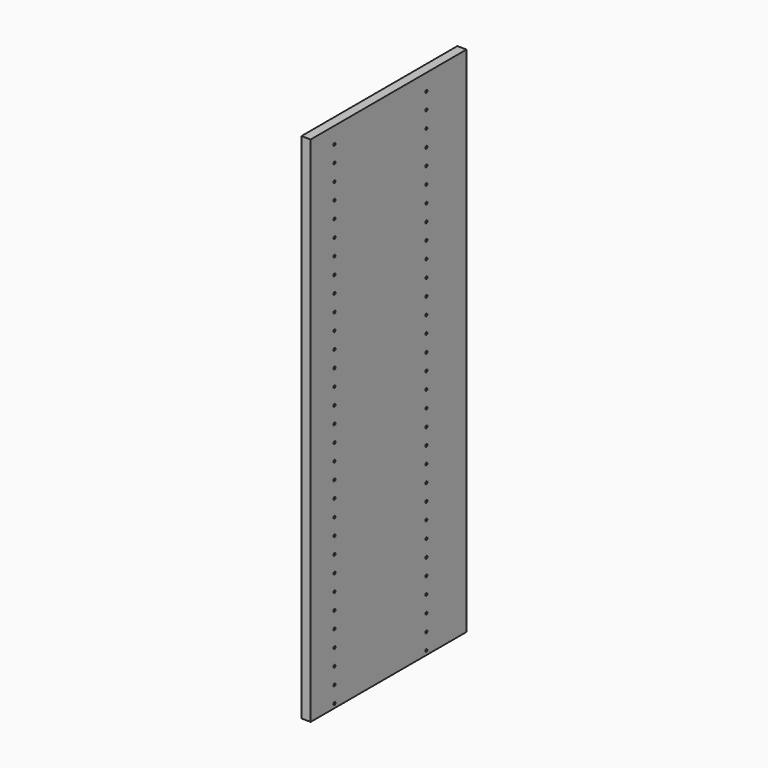
from build123d import *

# Parameters (mm, degrees)
F0_W     = 380
F0_H     = 1000
F1_DEPTH = 18
F2_R     = 2.5
F3_DEPTH = 5


with BuildPart() as f1:
    # F0 (on Right) → F1 (new body)
    with BuildSketch(Plane.YZ):
        with Locations((190, 500)):
            Rectangle(F0_W, F0_H)
    extrude(amount=F1_DEPTH)

    # F2 (on face) → F3 (cut)
    with BuildSketch(Plane.YZ.offset(18)):
        with Locations((58, 8)):
            Circle(F2_R)
        with Locations((58, 40)):
            Circle(F2_R)
        with Locations((58, 72)):
            Circle(F2_R)
        with Locations((58, 104)):
            Circle(F2_R)
        with Locations((58, 136)):
            Circle(F2_R)
        with Locations((58, 168)):
            Circle(F2_R)
        with Locations((58, 200)):
            Circle(F2_R)
        with Locations((58, 232)):
            Circle(F2_R)
        with Locations((58, 264)):
            Circle(F2_R)
        with Locations((58, 296)):
            Circle(F2_R)
        with Locations((58, 328)):
            Circle(F2_R)
        with Locations((58, 360)):
            Circle(F2_R)
        with Locations((58, 392)):
            Circle(F2_R)
        with Locations((58, 424)):
            Circle(F2_R)
        with Locations((58, 456)):
            Circle(F2_R)
        with Locations((58, 488)):
            Circle(F2_R)
        with Locations((58, 520)):
            Circle(F2_R)
        with Locations((58, 552)):
            Circle(F2_R)
        with Locations((58, 584)):
            Circle(F2_R)
        with Locations((58, 616)):
            Circle(F2_R)
        with Locations((58, 648)):
            Circle(F2_R)
        with Locations((58, 680)):
            Circle(F2_R)
        with Locations((58, 712)):
            Circle(F2_R)
        with Locations((58, 744)):
            Circle(F2_R)
        with Locations((58, 776)):
            Circle(F2_R)
        with Locations((58, 808)):
            Circle(F2_R)
        with Locations((58, 840)):
            Circle(F2_R)
        with Locations((58, 872)):
            Circle(F2_R)
        with Locations((58, 904)):
            Circle(F2_R)
        with Locations((58, 936)):
            Circle(F2_R)
        with Locations((58, 968)):
            Circle(F2_R)
        with Locations((282, 8)):
            Circle(F2_R)
        with Locations((282, 40)):
            Circle(F2_R)
        with Locations((282, 72)):
            Circle(F2_R)
        with Locations((282, 104)):
            Circle(F2_R)
        with Locations((282, 136)):
            Circle(F2_R)
        with Locations((282, 168)):
            Circle(F2_R)
        with Locations((282, 200)):
            Circle(F2_R)
        with Locations((282, 232)):
            Circle(F2_R)
        with Locations((282, 264)):
            Circle(F2_R)
        with Locations((282, 296)):
            Circle(F2_R)
        with Locations((282, 328)):
            Circle(F2_R)
        with Locations((282, 360)):
            Circle(F2_R)
        with Locations((282, 392)):
            Circle(F2_R)
        with Locations((282, 424)):
            Circle(F2_R)
        with Locations((282, 456)):
            Circle(F2_R)
        with Locations((282, 488)):
            Circle(F2_R)
        with Locations((282, 520)):
            Circle(F2_R)
        with Locations((282, 552)):
            Circle(F2_R)
        with Locations((282, 584)):
            Circle(F2_R)
        with Locations((282, 616)):
            Circle(F2_R)
        with Locations((282, 648)):
            Circle(F2_R)
        with Locations((282, 680)):
            Circle(F2_R)
        with Locations((282, 712)):
            Circle(F2_R)
        with Locations((282, 744)):
            Circle(F2_R)
        with Locations((282, 776)):
            Circle(F2_R)
        with Locations((282, 808)):
            Circle(F2_R)
        with Locations((282, 840)):
            Circle(F2_R)
        with Locations((282, 872)):
            Circle(F2_R)
        with Locations((282, 904)):
            Circle(F2_R)
        with Locations((282, 936)):
            Circle(F2_R)
        with Locations((282, 968)):
            Circle(F2_R)
    extrude(amount=-F3_DEPTH, mode=Mode.SUBTRACT)


solid = f1.part
